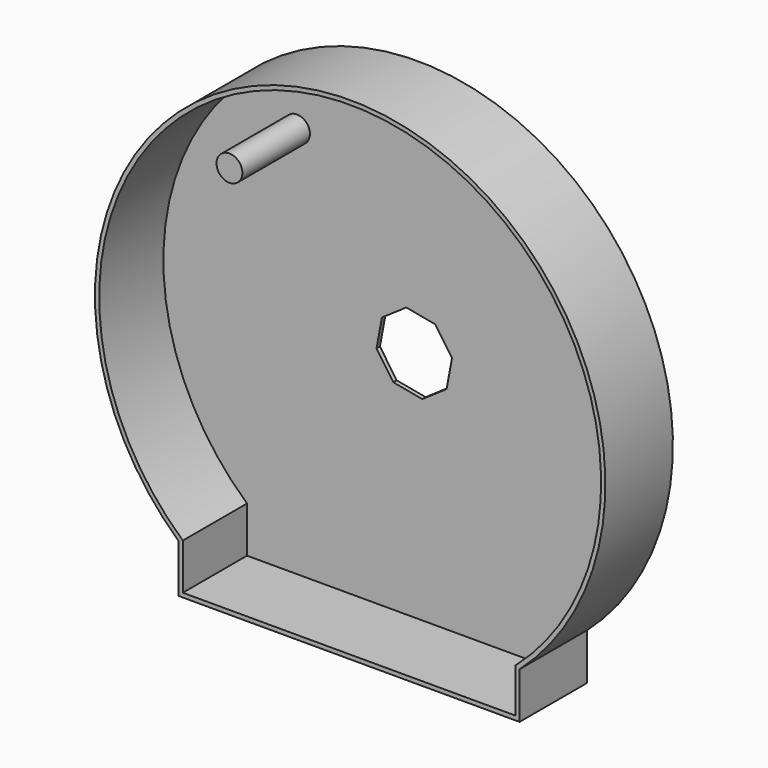
from build123d import *

# Parameters (mm, degrees)
F0_R      = 38.1036206278
F1_DEPTH  = 25
F2_COUNT  = 24
F3_DEPTH  = 35
F4_R      = 5
F5_SIZE   = 5
F7_DEPTH  = 50
F8_T      = -2.5
F10_DEPTH = 25
F11_R     = 7.6453811345
F12_DEPTH = 50


with BuildPart() as f1:
    # F0 (on Front) → F1 (new body)
    with BuildSketch(Plane.XZ):
        with BuildLine():
            ThreePointArc((-7.8842675869, 53.139290225), (-35.0884247435, -40.6785974441), (53.721, 0))
            ThreePointArc((53.721, 0), (38.2966086664, 37.6738052983), (0.8807473744, 53.7137796572))
            ThreePointArc((0.8807473744, 53.7137796572), (-3.5135215054, 53.6059792153), (-7.8842675869, 53.139290225))
        make_face()
        Circle(F0_R, mode=Mode.SUBTRACT)
        with BuildLine():
            ThreePointArc((-7.8842675869, 53.139290225), (-3.5135215054, 53.6059792153), (0.8807473744, 53.7137796572))
            ThreePointArc((0.8807473744, 53.7137796572), (0.6904629861, 56.2382962215), (0, 58.674))
            ThreePointArc((0, 58.674), (-1.2045880723, 61.1890122015), (-2.8564405638, 63.4357213824))
            ThreePointArc((-2.8564405638, 63.4357213824), (-4.0797358778, 62.2447411623), (-5.448019844, 63.2658603022))
            ThreePointArc((-5.448019844, 63.2658603022), (-6.792486114, 60.822762014), (-7.6584938023, 58.1720357962))
            ThreePointArc((-7.6584938023, 58.1720357962), (-8.0251266423, 55.6670462968), (-7.8842675869, 53.139290225))
        make_face()
    extrude(amount=F1_DEPTH)


with BuildPart() as f2_1:
    # F2: instance of F1
    add(f1.part.rotate(Axis((0, 0, 0), (0, 1, 0)), 1 * 360 / F2_COUNT))


with BuildPart() as f2_2:
    # F2: instance of F1
    add(f1.part.rotate(Axis((0, 0, 0), (0, 1, 0)), 2 * 360 / F2_COUNT))


with BuildPart() as f2_3:
    # F2: instance of F1
    add(f1.part.rotate(Axis((0, 0, 0), (0, 1, 0)), 3 * 360 / F2_COUNT))


with BuildPart() as f2_4:
    # F2: instance of F1
    add(f1.part.rotate(Axis((0, 0, 0), (0, 1, 0)), 4 * 360 / F2_COUNT))


with BuildPart() as f2_5:
    # F2: instance of F1
    add(f1.part.rotate(Axis((0, 0, 0), (0, 1, 0)), 5 * 360 / F2_COUNT))


with BuildPart() as f2_6:
    # F2: instance of F1
    add(f1.part.rotate(Axis((0, 0, 0), (0, 1, 0)), 6 * 360 / F2_COUNT))


with BuildPart() as f2_7:
    # F2: instance of F1
    add(f1.part.rotate(Axis((0, 0, 0), (0, 1, 0)), 7 * 360 / F2_COUNT))


with BuildPart() as f2_8:
    # F2: instance of F1
    add(f1.part.rotate(Axis((0, 0, 0), (0, 1, 0)), 8 * 360 / F2_COUNT))


with BuildPart() as f2_9:
    # F2: instance of F1
    add(f1.part.rotate(Axis((0, 0, 0), (0, 1, 0)), 9 * 360 / F2_COUNT))


with BuildPart() as f2_10:
    # F2: instance of F1
    add(f1.part.rotate(Axis((0, 0, 0), (0, 1, 0)), 10 * 360 / F2_COUNT))


with BuildPart() as f2_11:
    # F2: instance of F1
    add(f1.part.rotate(Axis((0, 0, 0), (0, 1, 0)), 11 * 360 / F2_COUNT))


with BuildPart() as f2_12:
    # F2: instance of F1
    add(f1.part.rotate(Axis((0, 0, 0), (0, 1, 0)), 12 * 360 / F2_COUNT))


with BuildPart() as f2_13:
    # F2: instance of F1
    add(f1.part.rotate(Axis((0, 0, 0), (0, 1, 0)), 13 * 360 / F2_COUNT))


with BuildPart() as f2_14:
    # F2: instance of F1
    add(f1.part.rotate(Axis((0, 0, 0), (0, 1, 0)), 14 * 360 / F2_COUNT))


with BuildPart() as f2_15:
    # F2: instance of F1
    add(f1.part.rotate(Axis((0, 0, 0), (0, 1, 0)), 15 * 360 / F2_COUNT))


with BuildPart() as f2_16:
    # F2: instance of F1
    add(f1.part.rotate(Axis((0, 0, 0), (0, 1, 0)), 16 * 360 / F2_COUNT))


with BuildPart() as f2_17:
    # F2: instance of F1
    add(f1.part.rotate(Axis((0, 0, 0), (0, 1, 0)), 17 * 360 / F2_COUNT))


with BuildPart() as f2_18:
    # F2: instance of F1
    add(f1.part.rotate(Axis((0, 0, 0), (0, 1, 0)), 18 * 360 / F2_COUNT))


with BuildPart() as f2_19:
    # F2: instance of F1
    add(f1.part.rotate(Axis((0, 0, 0), (0, 1, 0)), 19 * 360 / F2_COUNT))


with BuildPart() as f2_20:
    # F2: instance of F1
    add(f1.part.rotate(Axis((0, 0, 0), (0, 1, 0)), 20 * 360 / F2_COUNT))


with BuildPart() as f2_21:
    # F2: instance of F1
    add(f1.part.rotate(Axis((0, 0, 0), (0, 1, 0)), 21 * 360 / F2_COUNT))


with BuildPart() as f2_22:
    # F2: instance of F1
    add(f1.part.rotate(Axis((0, 0, 0), (0, 1, 0)), 22 * 360 / F2_COUNT))


with BuildPart() as f2_23:
    # F2: instance of F1
    add(f1.part.rotate(Axis((0, 0, 0), (0, 1, 0)), 23 * 360 / F2_COUNT))


with BuildPart() as f1_1:
    add(f1.part)

    add(f2_1.part)  # F3 merges F2_1

    add(f2_2.part)  # F3 merges F2_2

    add(f2_3.part)  # F3 merges F2_3

    add(f2_4.part)  # F3 merges F2_4

    add(f2_5.part)  # F3 merges F2_5

    add(f2_6.part)  # F3 merges F2_6

    add(f2_7.part)  # F3 merges F2_7

    add(f2_8.part)  # F3 merges F2_8

    add(f2_9.part)  # F3 merges F2_9

    add(f2_10.part)  # F3 merges F2_10

    add(f2_11.part)  # F3 merges F2_11

    add(f2_12.part)  # F3 merges F2_12

    add(f2_13.part)  # F3 merges F2_13

    add(f2_14.part)  # F3 merges F2_14

    add(f2_15.part)  # F3 merges F2_15

    add(f2_16.part)  # F3 merges F2_16

    add(f2_17.part)  # F3 merges F2_17

    add(f2_18.part)  # F3 merges F2_18

    add(f2_19.part)  # F3 merges F2_19

    add(f2_20.part)  # F3 merges F2_20

    add(f2_21.part)  # F3 merges F2_21

    add(f2_22.part)  # F3 merges F2_22

    add(f2_23.part)  # F3 merges F2_23
    # F0 (on Front) → F3 (join)
    with BuildSketch(Plane.XZ):
        Circle(F0_R)
        Polygon((22.3287471763, 4.725022344), (19.1299038845, -12.447713203), (4.725022344, -22.3287471763), (-12.447713203, -19.1299038845), (-22.3287471763, -4.725022344), (-19.1299038845, 12.447713203), (-4.725022344, 22.3287471763), (12.447713203, 19.1299038845), align=None, mode=Mode.SUBTRACT)
    extrude(amount=F3_DEPTH)

    # F4
    f4_edges = [f1_1.edges().sort_by_distance(p)[0] for p in [
        (-38.103621, -35, 0),
        (3.861345, -35, 20.729326),
        (17.38823, -35, 11.927463),
        (20.729326, -35, -3.861345),
        (11.927463, -35, -17.38823),
        (-3.861345, -35, -20.729326),
        (-17.38823, -35, -11.927463),
        (-20.729326, -35, 3.861345),
        (-11.927463, -35, 17.38823),
    ]]
    fillet(f4_edges, radius=F4_R)

    # F5
    f5_edges = [f1_1.edges().sort_by_distance(p)[0] for p in [
        (-33.103621, -35, 0),
        (4.776968, -35, 25.644774),
        (-14.755767, -35, 21.51142),
        (21.51142, -35, 14.755767),
        (-25.644774, -35, 4.776968),
        (25.644774, -35, -4.776968),
        (-21.51142, -35, -14.755767),
        (14.755767, -35, -21.51142),
        (-4.776968, -35, -25.644774),
        (36.639155, -33.535534, 0),
        (-38.103621, -30, 0),
        (-23.954189, -33.604656, -5.068985),
        (-20.729326, -30, 3.861345),
        (-20.522483, -33.604656, 13.353856),
        (-11.927463, -30, 17.38823),
        (-5.068985, -33.604656, 23.954189),
        (3.861345, -30, 20.729326),
        (13.353856, -33.604656, 20.522483),
        (17.38823, -30, 11.927463),
        (23.954189, -33.604656, 5.068985),
        (20.729326, -30, -3.861345),
        (20.522483, -33.604656, -13.353856),
        (11.927463, -30, -17.38823),
        (5.068985, -33.604656, -23.954189),
        (-3.861345, -30, -20.729326),
        (-13.353856, -33.604656, -20.522483),
        (-17.38823, -30, -11.927463),
    ]]
    chamfer(f5_edges, length=F5_SIZE)

    # F6 (on Front) → F7 (join)
    with BuildSketch(Plane.XZ):
        with BuildLine():
            ThreePointArc((127.3675560951, -42.6523669827), (27.9093520111, 221.3839321935), (-74.4929984212, -41.5245314744))
            Line((-74.4929984212, -41.5245314744), (-74.4929984212, -70.1153203845))
            Line((-74.4929984212, -70.1153203845), (127.3675560951, -70.1153203845))
            Line((127.3675560951, -70.1153203845), (127.3675560951, -42.6523669827))
        make_face()
    extrude(amount=F7_DEPTH)

    # F8
    f8_openings = [f1_1.faces().sort_by_distance(p)[0] for p in [
        (27.015959, -50, 69.902767),
    ]]
    offset(amount=F8_T, openings=f8_openings, kind=Kind.INTERSECTION)

    # F9 (on face) → F10 (cut)
    with BuildSketch(Plane.XZ.offset(2.5)):
        Polygon((31.7429648501, 47.7299130723), (46.1478463905, 57.6109470455), (49.3466896824, 74.7836825926), (39.4656557091, 89.1885641331), (22.292920162, 92.3874074249), (7.8880386215, 82.5063734516), (4.6891953297, 65.3336379045), (14.570229303, 50.9287563641), align=None)
    extrude(amount=-F10_DEPTH, mode=Mode.SUBTRACT)

    # F11 (on face) → F12 (join)
    with BuildSketch(Plane.XZ.offset(2.5)):
        with Locations((-42.4036420882, 164.3054187298)):
            Circle(F11_R)
    extrude(amount=F12_DEPTH)


solid = f1_1.part
